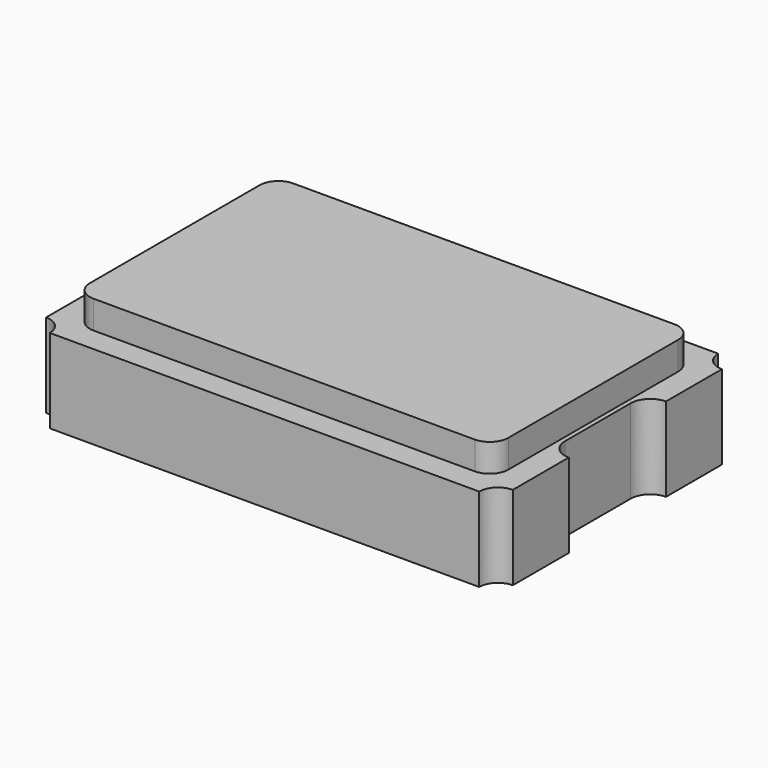
from build123d import *

# Parameters (mm, degrees)
F1_DEPTH = 0.9
F3_DEPTH = 0.3


with BuildPart() as f1:
    # F0 (on Top) → F1 (new body)
    with BuildSketch(Plane.XY):
        with BuildLine():
            Line((-2.3, -1.6), (0, -1.6))
            Line((0, -1.6), (2.3, -1.6))
            ThreePointArc((2.3, -1.6), (2.358579, -1.458579), (2.5, -1.4))
            Line((2.5, -1.4), (2.5, -0.650952))
            ThreePointArc((2.5, -0.650952), (2.351512, -0.589446), (2.290007, -0.440959))
            Line((2.290007, -0.440959), (2.290007, 0.440959))
            ThreePointArc((2.290007, 0.440959), (2.351512, 0.589446), (2.5, 0.650952))
            Line((2.5, 0.650952), (2.5, 1.4))
            ThreePointArc((2.5, 1.4), (2.358579, 1.458579), (2.3, 1.6))
            Line((2.3, 1.6), (0, 1.6))
            Line((0, 1.6), (-2.3, 1.6))
            ThreePointArc((-2.3, 1.6), (-2.358579, 1.458579), (-2.5, 1.4))
            Line((-2.5, 1.4), (-2.5, 0.650952))
            ThreePointArc((-2.5, 0.650952), (-2.351512, 0.589446), (-2.290007, 0.440959))
            Line((-2.290007, 0.440959), (-2.290007, -0.440959))
            ThreePointArc((-2.290007, -0.440959), (-2.351512, -0.589446), (-2.5, -0.650952))
            Line((-2.5, -0.650952), (-2.5, -1.4))
            ThreePointArc((-2.5, -1.4), (-2.358579, -1.458579), (-2.3, -1.6))
        make_face()
    extrude(amount=F1_DEPTH)

    # F2 (on face) → F3 (join)
    with BuildSketch(Plane.XY.offset(0.9)):
        with BuildLine():
            Line((-2.041983, -1.33721), (2.041983, -1.33721))
            ThreePointArc((2.041983, -1.33721), (2.183404, -1.278631), (2.241983, -1.13721))
            Line((2.241983, -1.13721), (2.241983, 1.13721))
            ThreePointArc((2.241983, 1.13721), (2.183404, 1.278631), (2.041983, 1.33721))
            Line((2.041983, 1.33721), (-2.041983, 1.33721))
            ThreePointArc((-2.041983, 1.33721), (-2.183404, 1.278631), (-2.241983, 1.13721))
            Line((-2.241983, 1.13721), (-2.241983, -1.13721))
            ThreePointArc((-2.241983, -1.13721), (-2.183404, -1.278631), (-2.041983, -1.33721))
        make_face()
    extrude(amount=F3_DEPTH)


solid = f1.part
